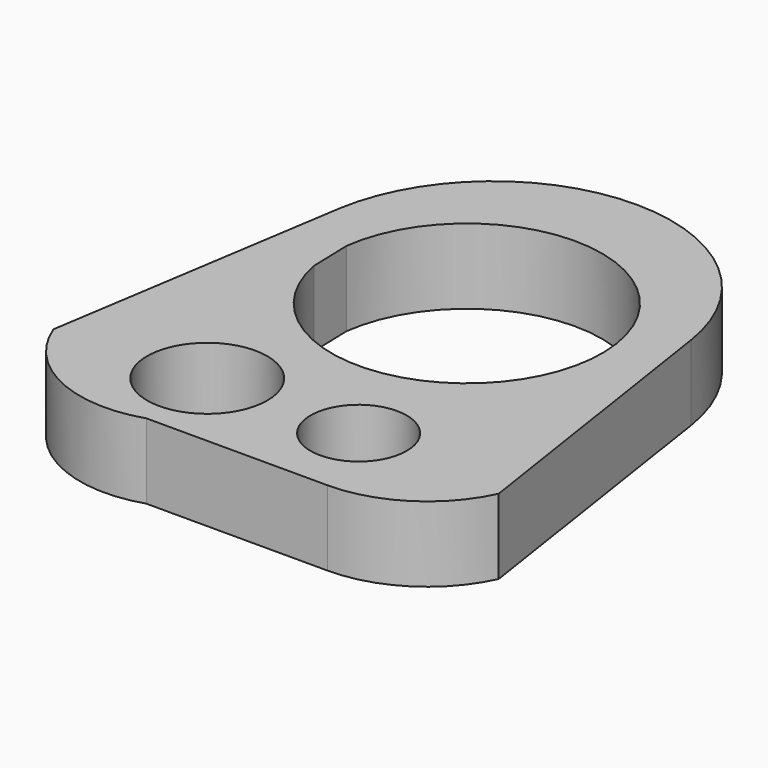
from build123d import *

# Parameters (mm, degrees)
F0_R     = 20
F0_R_2   = 16
F1_DEPTH = 25


with BuildPart() as f1:
    # F0 (on Top) → F1 (new body)
    with BuildSketch(Plane.XY):
        with BuildLine():
            Line((-24.644785, -59.770685), (35.69245, -59.770685))
            ThreePointArc((35.69245, -59.770685), (58.048622, -53.236977), (73.367804, -35.69245))
            Line((73.367804, -35.69245), (58.354322, 63.169971))
            ThreePointArc((58.354322, 63.169971), (-0.062317, 113.75339), (-59.204139, 64.019792))
            Line((-59.204139, 64.019792), (-74.784175, -35.69245))
            ThreePointArc((-74.784175, -35.69245), (-54.527456, -57.753884), (-24.644785, -59.770685))
        make_face()
        with Locations((-26.344426, -32.293167)):
            Circle(F0_R, mode=Mode.SUBTRACT)
        with Locations((23.653307, -31.816988)):
            Circle(F0_R_2, mode=Mode.SUBTRACT)
        with BuildLine():
            ThreePointArc((-44.629779, 48.534732), (44.982056, 44.044961), (-44.233417, 34.503559))
            Line((-44.233417, 34.503559), (-44.629779, 48.534732))
        make_face(mode=Mode.SUBTRACT)
    extrude(amount=F1_DEPTH)


solid = f1.part
